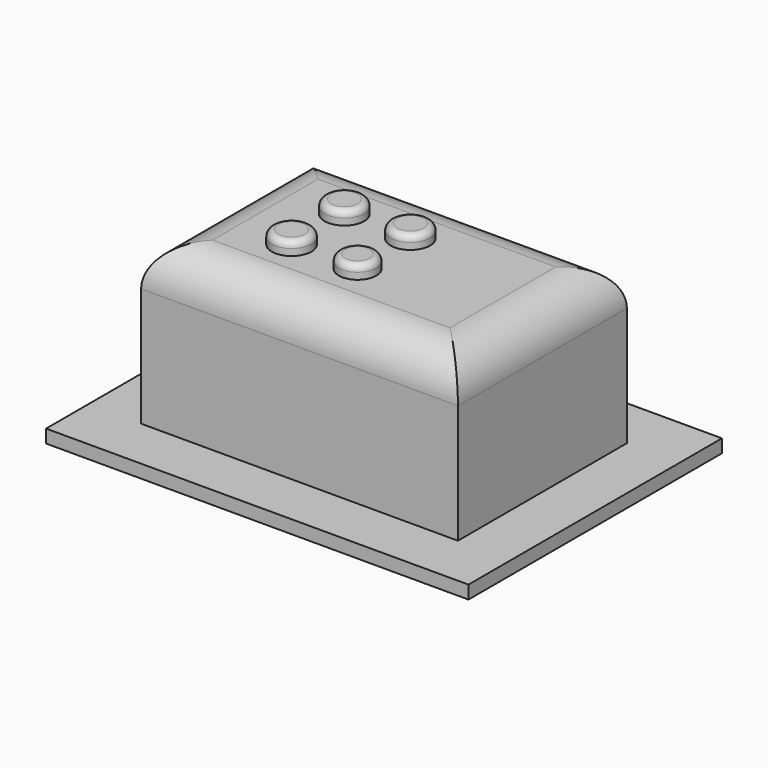
from build123d import *

# Parameters (mm, degrees)
SKETCH_W     = 16
SKETCH_H     = 12
PAD_DEPTH    = 0.5
SKETCH001_W  = 12
SKETCH001_H  = 8
PAD001_DEPTH = 6
FILLET_R     = 1.5
SKETCH002_R  = 0.75
PAD002_DEPTH = 0.5
FILLET001_R  = 0.25
SKETCH003_R  = 0.709805
PAD003_DEPTH = 0.5
FILLET002_R  = 0.25
SKETCH004_R  = 0.75
PAD004_DEPTH = 0.5
FILLET003_R  = 0.25
SKETCH005_R  = 0.75
PAD005_DEPTH = 0.5
FILLET004_R  = 0.25


with BuildPart() as pad:
    # Sketch → Pad (new body)
    with BuildSketch(Plane.XY):
        with Locations((8, 6)):
            Rectangle(SKETCH_W, SKETCH_H)
    extrude(amount=PAD_DEPTH)


with BuildPart() as fillet_body:
    # Sketch001 → Pad001 (new body)
    with BuildSketch(Plane.XY.offset(0.5)):
        with Locations((8, 6)):
            Rectangle(SKETCH001_W, SKETCH001_H)
    extrude(amount=PAD001_DEPTH)

    # Fillet
    fillet_edges = [fillet_body.edges().sort_by_distance(p)[0] for p in [
        (8, 2, 6.5),
        (14, 6, 6.5),
        (8, 10, 6.5),
        (2, 6, 6.5),
    ]]
    fillet(fillet_edges, radius=FILLET_R)


with BuildPart() as fillet001:
    # Sketch002 → Pad002 (new body)
    with BuildSketch(Plane.XY.offset(6.5)):
        with Locations((5.5, 4.75)):
            Circle(SKETCH002_R)
    extrude(amount=PAD002_DEPTH)

    # Fillet001
    fillet001_edges = [fillet001.edges().sort_by_distance(p)[0] for p in [
        (4.75, 4.75, 7),
    ]]
    fillet(fillet001_edges, radius=FILLET001_R)


with BuildPart() as fillet002:
    # Sketch003 → Pad003 (new body)
    with BuildSketch(Plane.XY.offset(6.5)):
        with Locations((8, 4.75)):
            Circle(SKETCH003_R)
    extrude(amount=PAD003_DEPTH)

    # Fillet002
    fillet002_edges = [fillet002.edges().sort_by_distance(p)[0] for p in [
        (7.290195, 4.75, 7),
    ]]
    fillet(fillet002_edges, radius=FILLET002_R)


with BuildPart() as fillet003:
    # Sketch004 → Pad004 (new body)
    with BuildSketch(Plane.XY.offset(6.5)):
        with Locations((5.5, 7.25)):
            Circle(SKETCH004_R)
    extrude(amount=PAD004_DEPTH)

    # Fillet003
    fillet003_edges = [fillet003.edges().sort_by_distance(p)[0] for p in [
        (4.75, 7.25, 7),
    ]]
    fillet(fillet003_edges, radius=FILLET003_R)


with BuildPart() as fillet004:
    # Sketch005 → Pad005 (new body)
    with BuildSketch(Plane.XY.offset(6.5)):
        with Locations((8, 7.25)):
            Circle(SKETCH005_R)
    extrude(amount=PAD005_DEPTH)

    # Fillet004
    fillet004_edges = [fillet004.edges().sort_by_distance(p)[0] for p in [
        (7.25, 7.25, 7),
    ]]
    fillet(fillet004_edges, radius=FILLET004_R)


solid = Compound([pad.part, fillet_body.part, fillet001.part, fillet002.part, fillet003.part, fillet004.part])
